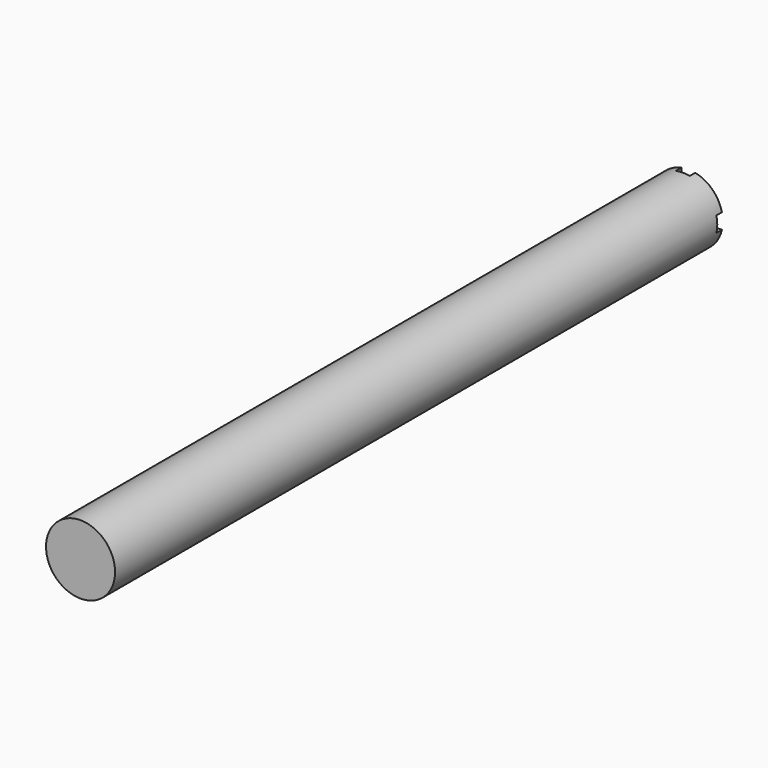
from build123d import *

# Parameters (mm, degrees)
F0_R     = 12.7
F1_DEPTH = 279.4
F2_R     = 6.35
F3_DEPTH = 19.05
F4_W     = 5.08
F4_H     = 10.381874
F4_W_2   = 11.262799
F4_H_2   = 5.378819
F4_W_3   = 5.677644
F4_H_3   = 9.531256
F4_W_4   = 10.833798
F4_H_4   = 5.677642
F5_DEPTH = 2.54


with BuildPart() as f1:
    # F0 (on Front) → F1 (new body)
    with BuildSketch(Plane.XZ):
        Circle(F0_R)
    extrude(amount=F1_DEPTH)

    # F2 (on face) → F3 (cut)
    with BuildSketch(Plane(origin=(0, 0, 0), x_dir=(-1, 0, 0), z_dir=(0, 1, 0))):
        Circle(F2_R)
    extrude(amount=-F3_DEPTH, mode=Mode.SUBTRACT)

    # F4 (on Front) → F5 (cut)
    with BuildSketch(Plane.XZ):
        with Locations((0.023213, 10.806244)):
            Rectangle(F4_W, F4_H)
        with Locations((-10.631255, 0.159545)):
            Rectangle(F4_W_2, F4_H_2)
        with Locations((0.023213, -9.717169)):
            Rectangle(F4_W_3, F4_H_3)
        with Locations((10.593361, 0.010134)):
            Rectangle(F4_W_4, F4_H_4)
    extrude(amount=F5_DEPTH, mode=Mode.SUBTRACT)


solid = f1.part
